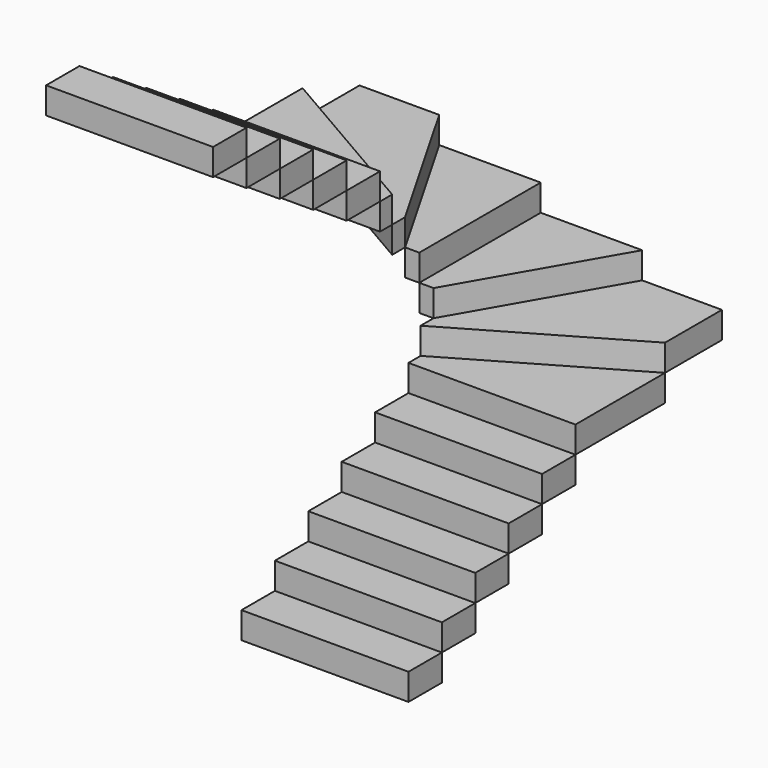
from build123d import *

# Parameters (mm, degrees)
F1_W      = 1117.6
F1_H      = 279.4
F3_DEPTH  = 177.8
F4_START  = 177.8
F4_DEPTH  = 177.8
F5_START  = 355.6
F5_DEPTH  = 177.8
F6_START  = 533.4
F6_DEPTH  = 177.8
F7_START  = 711.2
F7_DEPTH  = 177.8
F8_START  = 889
F8_DEPTH  = 177.8
F9_START  = 1066.8
F9_DEPTH  = 177.8
F10_START = 1244.6
F10_DEPTH = 177.8
F11_START = 1422.4
F11_DEPTH = 177.8
F12_START = 1600.2
F12_DEPTH = 177.8
F13_START = 1778
F13_DEPTH = 177.8
F14_START = 1955.8
F2_W      = 1117.6
F2_H      = 279.4
F14_DEPTH = 177.8
F15_START = 2133.6
F15_DEPTH = 177.8
F16_START = 2311.4
F16_DEPTH = 177.8
F17_START = 2489.2
F17_DEPTH = 177.8
F18_START = 2667
F18_DEPTH = 177.8


with BuildPart() as f3:
    # F1 (on Top) → F3 (new body)
    with BuildSketch(Plane.XY):
        with Locations((654.05, -1257.3)):
            Rectangle(F1_W, F1_H)
    extrude(amount=F3_DEPTH)


with BuildPart() as f4:
    # F1 (on Top) → F4 (new body)
    with BuildSketch(Plane.XY.offset(F4_START)):
        with Locations((654.05, -977.9)):
            Rectangle(F1_W, F1_H)
    extrude(amount=F4_DEPTH)


with BuildPart() as f5:
    # F1 (on Top) → F5 (new body)
    with BuildSketch(Plane.XY.offset(F5_START)):
        with Locations((654.05, -698.5)):
            Rectangle(F1_W, F1_H)
    extrude(amount=F5_DEPTH)


with BuildPart() as f6:
    # F1 (on Top) → F6 (new body)
    with BuildSketch(Plane.XY.offset(F6_START)):
        with Locations((654.05, -419.1)):
            Rectangle(F1_W, F1_H)
    extrude(amount=F6_DEPTH)


with BuildPart() as f7:
    # F1 (on Top) → F7 (new body)
    with BuildSketch(Plane.XY.offset(F7_START)):
        with Locations((654.05, -139.7)):
            Rectangle(F1_W, F1_H)
    extrude(amount=F7_DEPTH)


with BuildPart() as f8:
    # F1 (on Top) → F8 (new body)
    with BuildSketch(Plane.XY.offset(F8_START)):
        Polygon((95.25, 101.6), (95.25, 0), (1212.85, 0), (1212.85, 749.3), align=None)
    extrude(amount=F8_DEPTH)


with BuildPart() as f9:
    # F1 (on Top) → F9 (new body)
    with BuildSketch(Plane.XY.offset(F9_START)):
        Polygon((95.25, 209.55), (95.25, 101.6), (1212.85, 749.3), (1212.85, 1225.55), (679.45, 1225.55), align=None)
    extrude(amount=F9_DEPTH)


with BuildPart() as f10:
    # F1 (on Top) → F10 (new body)
    with BuildSketch(Plane.XY.offset(F10_START)):
        Polygon((0, 209.55), (95.25, 209.55), (679.45, 1225.55), (0, 1225.55), align=None)
    extrude(amount=F10_DEPTH)


with BuildPart() as f11:
    # F2 (on Top) → F11 (new body)
    with BuildSketch(Plane.XY.offset(F11_START)):
        Polygon((-95.25, 209.55), (0, 209.55), (0, 1225.55), (-679.45, 1225.55), align=None)
    extrude(amount=F11_DEPTH)


with BuildPart() as f12:
    # F2 (on Top) → F12 (new body)
    with BuildSketch(Plane.XY.offset(F12_START)):
        Polygon((-95.25, 101.6), (-95.25, 209.55), (-679.45, 1225.55), (-1212.85, 1225.55), (-1212.85, 749.3), align=None)
    extrude(amount=F12_DEPTH)


with BuildPart() as f13:
    # F2 (on Top) → F13 (new body)
    with BuildSketch(Plane.XY.offset(F13_START)):
        Polygon((-95.25, 0), (-95.25, 101.6), (-1212.85, 749.3), (-1212.85, 0), align=None)
    extrude(amount=F13_DEPTH)


with BuildPart() as f14:
    # F2 (on Top) → F14 (new body)
    with BuildSketch(Plane.XY.offset(F14_START)):
        with Locations((-654.05, -139.7)):
            Rectangle(F2_W, F2_H)
    extrude(amount=F14_DEPTH)


with BuildPart() as f15:
    # F2 (on Top) → F15 (new body)
    with BuildSketch(Plane.XY.offset(F15_START)):
        with Locations((-654.05, -419.1)):
            Rectangle(F2_W, F2_H)
    extrude(amount=F15_DEPTH)


with BuildPart() as f16:
    # F2 (on Top) → F16 (new body)
    with BuildSketch(Plane.XY.offset(F16_START)):
        with Locations((-654.05, -698.5)):
            Rectangle(F2_W, F2_H)
    extrude(amount=F16_DEPTH)

    # F2 (on Top) → F17 (join)
    with BuildSketch(Plane.XY.offset(F17_START)):
        with Locations((-654.05, -977.9)):
            Rectangle(F2_W, F2_H)
    extrude(amount=F17_DEPTH)


with BuildPart() as f18:
    # F2 (on Top) → F18 (new body)
    with BuildSketch(Plane.XY.offset(F18_START)):
        with Locations((-654.05, -1257.3)):
            Rectangle(F2_W, F2_H)
    extrude(amount=F18_DEPTH)


solid = Compound([f3.part, f4.part, f5.part, f6.part, f7.part, f8.part, f9.part, f10.part, f11.part, f12.part, f13.part, f14.part, f15.part, f16.part, f18.part])
